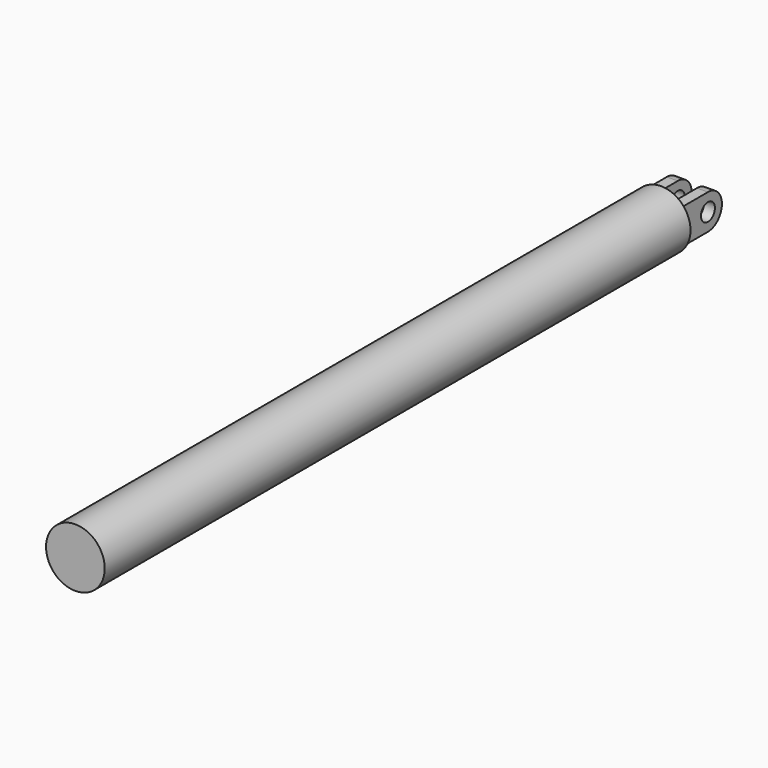
from build123d import *

# Parameters (mm, degrees)
F2_R     = 20
F3_DEPTH = 25
F6_R     = 67.15
F7_DEPTH = 1675


with BuildPart() as f3:
    # F2 (on offset) → F3 (new body)
    with BuildSketch(Plane.YZ.offset(-22)):
        with BuildLine():
            Line((0, 40), (-75, 40))
            Line((-75, 40), (-75, -40))
            Line((-75, -40), (0, -40))
            ThreePointArc((0, -40), (40, 0), (0, 40))
        make_face()
        Circle(F2_R, mode=Mode.SUBTRACT)
    extrude(amount=-F3_DEPTH)


with BuildPart() as f5_1:
    # F5: instance of F3
    add(f3.part.mirror(Plane.YZ))


with BuildPart() as f3_1:
    add(f3.part)

    add(f5_1.part)  # F7 merges F5_1
    # F6 (on face) → F7 (join, through all)
    with BuildSketch(Plane.XZ.offset(75)):
        Circle(F6_R)
    extrude(amount=F7_DEPTH)


solid = f3_1.part
